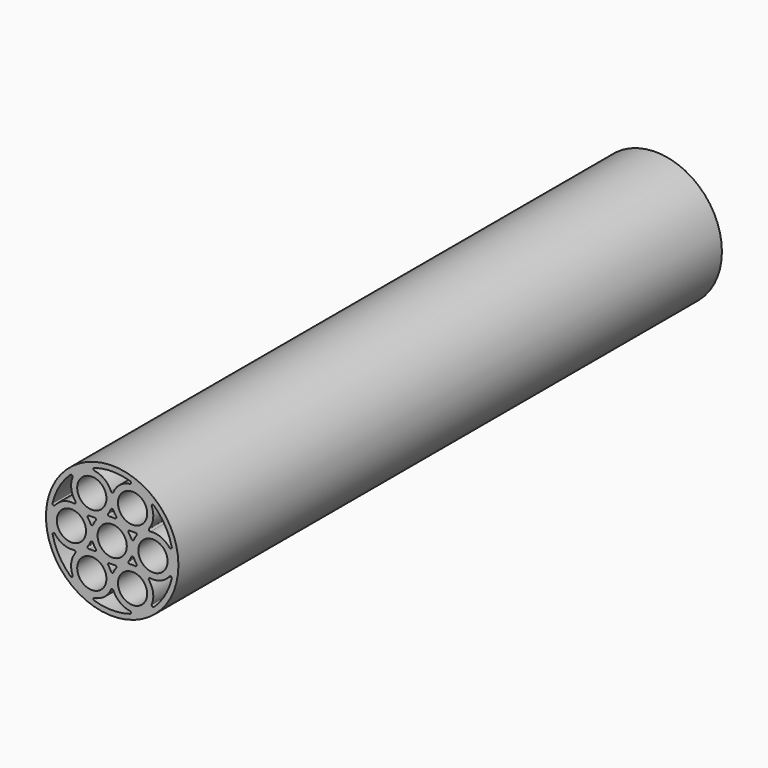
from build123d import *

# Parameters (mm, degrees)
F0_R     = 9.75
F0_R_2   = 2.15
F1_DEPTH = 100


with BuildPart() as f1:
    # F0 (on Front) → F1 (new body)
    with BuildSketch(Plane.XZ):
        with Locations((6, 0)):
            Circle(F0_R)
        with Locations((3, -5.2)):
            Circle(F0_R_2, mode=Mode.SUBTRACT)
        with BuildLine():
            ThreePointArc((0.394847, -3.024334), (0.593975, -3.122706), (0.579462, -3.344334))
            ThreePointArc((0.579462, -3.344334), (-0.023044, -4.795398), (0.176673, -6.353832))
            ThreePointArc((0.176673, -6.353832), (0.105059, -6.594152), (-0.145019, -6.575618))
            ThreePointArc((-0.145019, -6.575618), (-1.795123, -4.498451), (-2.767969, -2.030449))
            ThreePointArc((-2.767969, -2.030449), (-2.65874, -1.804579), (-2.414779, -1.863154))
            ThreePointArc((-2.414779, -1.863154), (-1.164953, -2.818756), (0.394847, -3.024334))
        make_face(mode=Mode.SUBTRACT)
        with BuildLine():
            ThreePointArc((6.394847, -3.024334), (6.593975, -3.122706), (6.579462, -3.344334))
            ThreePointArc((6.579462, -3.344334), (6.359886, -3.672814), (6.184615, -4.026923))
            ThreePointArc((6.184615, -4.026923), (6, -4.15), (5.815385, -4.026923))
            ThreePointArc((5.815385, -4.026923), (5.640114, -3.672814), (5.420538, -3.344334))
            ThreePointArc((5.420538, -3.344334), (5.406025, -3.122706), (5.605153, -3.024334))
            ThreePointArc((5.605153, -3.024334), (6, -3.05), (6.394847, -3.024334))
        make_face(mode=Mode.SUBTRACT)
        with BuildLine():
            ThreePointArc((2.815385, -1.173077), (3, -1.05), (3.184615, -1.173077))
            ThreePointArc((3.184615, -1.173077), (3.359886, -1.527186), (3.579462, -1.855666))
            ThreePointArc((3.579462, -1.855666), (3.593975, -2.077294), (3.394847, -2.175666))
            ThreePointArc((3.394847, -2.175666), (3, -2.15), (2.605153, -2.175666))
            ThreePointArc((2.605153, -2.175666), (2.406025, -2.077294), (2.420538, -1.855666))
            ThreePointArc((2.420538, -1.855666), (2.640114, -1.527186), (2.815385, -1.173077))
        make_face(mode=Mode.SUBTRACT)
        with BuildLine():
            ThreePointArc((5.815385, -6.373077), (6, -6.25), (6.184615, -6.373077))
            ThreePointArc((6.184615, -6.373077), (7.139308, -7.616677), (8.585647, -8.221723))
            ThreePointArc((8.585647, -8.221723), (8.757847, -8.404014), (8.616624, -8.61123))
            ThreePointArc((8.616624, -8.61123), (6, -9), (3.383376, -8.61123))
            ThreePointArc((3.383376, -8.61123), (3.242153, -8.404014), (3.414353, -8.221723))
            ThreePointArc((3.414353, -8.221723), (4.860692, -7.616677), (5.815385, -6.373077))
        make_face(mode=Mode.SUBTRACT)
        with Locations((9, -5.2)):
            Circle(F0_R_2, mode=Mode.SUBTRACT)
        with BuildLine():
            ThreePointArc((8.815385, -1.173077), (9, -1.05), (9.184615, -1.173077))
            ThreePointArc((9.184615, -1.173077), (9.359886, -1.527186), (9.579462, -1.855666))
            ThreePointArc((9.579462, -1.855666), (9.593975, -2.077294), (9.394847, -2.175666))
            ThreePointArc((9.394847, -2.175666), (9, -2.15), (8.605153, -2.175666))
            ThreePointArc((8.605153, -2.175666), (8.406025, -2.077294), (8.420538, -1.855666))
            ThreePointArc((8.420538, -1.855666), (8.640114, -1.527186), (8.815385, -1.173077))
        make_face(mode=Mode.SUBTRACT)
        with BuildLine():
            ThreePointArc((11.420538, -3.344334), (11.406025, -3.122706), (11.605153, -3.024334))
            ThreePointArc((11.605153, -3.024334), (13.164953, -2.818756), (14.414779, -1.863154))
            ThreePointArc((14.414779, -1.863154), (14.65874, -1.804579), (14.767969, -2.030449))
            ThreePointArc((14.767969, -2.030449), (13.795123, -4.498451), (12.145019, -6.575618))
            ThreePointArc((12.145019, -6.575618), (11.894941, -6.594152), (11.823327, -6.353832))
            ThreePointArc((11.823327, -6.353832), (12.023044, -4.795398), (11.420538, -3.344334))
        make_face(mode=Mode.SUBTRACT)
        Circle(F0_R_2, mode=Mode.SUBTRACT)
        with BuildLine():
            ThreePointArc((0.579462, 3.344334), (0.593975, 3.122706), (0.394847, 3.024334))
            ThreePointArc((0.394847, 3.024334), (-1.164953, 2.818756), (-2.414779, 1.863154))
            ThreePointArc((-2.414779, 1.863154), (-2.65874, 1.804579), (-2.767969, 2.030449))
            ThreePointArc((-2.767969, 2.030449), (-1.795123, 4.498451), (-0.145019, 6.575618))
            ThreePointArc((-0.145019, 6.575618), (0.105059, 6.594152), (0.176673, 6.353832))
            ThreePointArc((0.176673, 6.353832), (-0.023044, 4.795398), (0.579462, 3.344334))
        make_face(mode=Mode.SUBTRACT)
        with BuildLine():
            ThreePointArc((3.184615, 1.173077), (3, 1.05), (2.815385, 1.173077))
            ThreePointArc((2.815385, 1.173077), (2.640114, 1.527186), (2.420538, 1.855666))
            ThreePointArc((2.420538, 1.855666), (2.406025, 2.077294), (2.605153, 2.175666))
            ThreePointArc((2.605153, 2.175666), (3, 2.15), (3.394847, 2.175666))
            ThreePointArc((3.394847, 2.175666), (3.593975, 2.077294), (3.579462, 1.855666))
            ThreePointArc((3.579462, 1.855666), (3.359886, 1.527186), (3.184615, 1.173077))
        make_face(mode=Mode.SUBTRACT)
        with Locations((3, 5.2)):
            Circle(F0_R_2, mode=Mode.SUBTRACT)
        with Locations((6, 0)):
            Circle(F0_R_2, mode=Mode.SUBTRACT)
        with BuildLine():
            ThreePointArc((9.184615, 1.173077), (9, 1.05), (8.815385, 1.173077))
            ThreePointArc((8.815385, 1.173077), (8.640114, 1.527186), (8.420538, 1.855666))
            ThreePointArc((8.420538, 1.855666), (8.406025, 2.077294), (8.605153, 2.175666))
            ThreePointArc((8.605153, 2.175666), (9, 2.15), (9.394847, 2.175666))
            ThreePointArc((9.394847, 2.175666), (9.593975, 2.077294), (9.579462, 1.855666))
            ThreePointArc((9.579462, 1.855666), (9.359886, 1.527186), (9.184615, 1.173077))
        make_face(mode=Mode.SUBTRACT)
        with BuildLine():
            ThreePointArc((5.605153, 3.024334), (5.406025, 3.122706), (5.420538, 3.344334))
            ThreePointArc((5.420538, 3.344334), (5.640114, 3.672814), (5.815385, 4.026923))
            ThreePointArc((5.815385, 4.026923), (6, 4.15), (6.184615, 4.026923))
            ThreePointArc((6.184615, 4.026923), (6.359886, 3.672814), (6.579462, 3.344334))
            ThreePointArc((6.579462, 3.344334), (6.593975, 3.122706), (6.394847, 3.024334))
            ThreePointArc((6.394847, 3.024334), (6, 3.05), (5.605153, 3.024334))
        make_face(mode=Mode.SUBTRACT)
        with Locations((12, 0)):
            Circle(F0_R_2, mode=Mode.SUBTRACT)
        with BuildLine():
            ThreePointArc((11.605153, 3.024334), (11.406025, 3.122706), (11.420538, 3.344334))
            ThreePointArc((11.420538, 3.344334), (12.023044, 4.795398), (11.823327, 6.353832))
            ThreePointArc((11.823327, 6.353832), (11.894941, 6.594152), (12.145019, 6.575618))
            ThreePointArc((12.145019, 6.575618), (13.795123, 4.498451), (14.767969, 2.030449))
            ThreePointArc((14.767969, 2.030449), (14.65874, 1.804579), (14.414779, 1.863154))
            ThreePointArc((14.414779, 1.863154), (13.164953, 2.818756), (11.605153, 3.024334))
        make_face(mode=Mode.SUBTRACT)
        with Locations((9, 5.2)):
            Circle(F0_R_2, mode=Mode.SUBTRACT)
        with BuildLine():
            ThreePointArc((6.184615, 6.373077), (6, 6.25), (5.815385, 6.373077))
            ThreePointArc((5.815385, 6.373077), (4.860692, 7.616677), (3.414353, 8.221723))
            ThreePointArc((3.414353, 8.221723), (3.242153, 8.404014), (3.383376, 8.61123))
            ThreePointArc((3.383376, 8.61123), (6, 9), (8.616624, 8.61123))
            ThreePointArc((8.616624, 8.61123), (8.757847, 8.404014), (8.585647, 8.221723))
            ThreePointArc((8.585647, 8.221723), (7.139308, 7.616677), (6.184615, 6.373077))
        make_face(mode=Mode.SUBTRACT)
    extrude(amount=F1_DEPTH)


solid = f1.part
